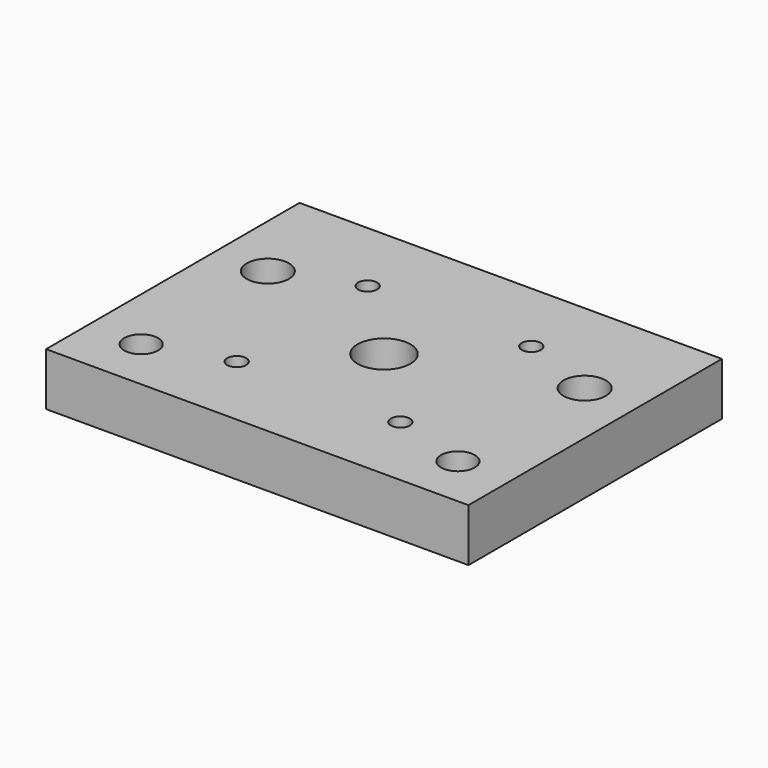
from build123d import *

# Parameters (mm, degrees)
SKETCH_W   = 80
SKETCH_H   = 60
SKETCH_R   = 5
SKETCH_R_2 = 1.8
SKETCH_R_3 = 3.2
SKETCH_R_4 = 4
PAD_DEPTH  = 10


with BuildPart() as part:
    # Sketch → Pad (new body)
    with BuildSketch(Plane.XY):
        with Locations((40, 30)):
            Rectangle(SKETCH_W, SKETCH_H)
        with Locations((40, 30)):
            Circle(SKETCH_R, mode=Mode.SUBTRACT)
        with Locations((55.5, 45.5)):
            Circle(SKETCH_R_2, mode=Mode.SUBTRACT)
        with Locations((55.5, 14.5)):
            Circle(SKETCH_R_2, mode=Mode.SUBTRACT)
        with Locations((24.5, 14.5)):
            Circle(SKETCH_R_2, mode=Mode.SUBTRACT)
        with Locations((24.5, 45.5)):
            Circle(SKETCH_R_2, mode=Mode.SUBTRACT)
        with Locations((10, 10)):
            Circle(SKETCH_R_3, mode=Mode.SUBTRACT)
        with Locations((70, 10)):
            Circle(SKETCH_R_3, mode=Mode.SUBTRACT)
        with Locations((70, 40)):
            Circle(SKETCH_R_4, mode=Mode.SUBTRACT)
        with Locations((10, 40)):
            Circle(SKETCH_R_4, mode=Mode.SUBTRACT)
    extrude(amount=PAD_DEPTH)


solid = part.part
